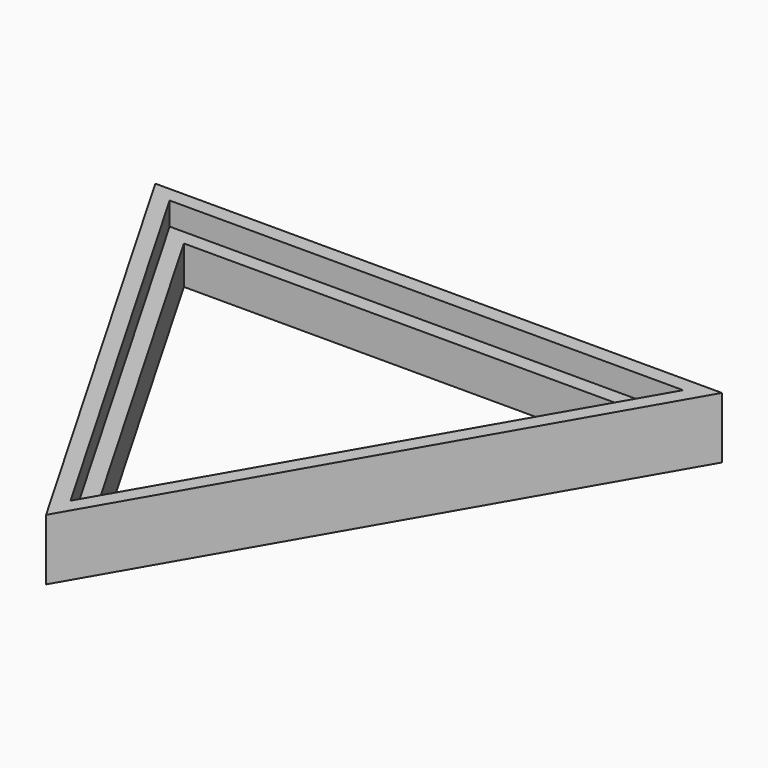
from build123d import *

# Parameters (mm, degrees)
F1_DEPTH = 25
F2_DEPTH = 40


with BuildPart() as f1:
    # F0 (on Top) → F1 (new body)
    with BuildSketch(Plane.XY):
        Polygon((187.1705980145, 100.9474343061), (-182.8294019855, 100.9474343061), (2.1705980145, -219.4819650941), align=None)
        Polygon((2.1705980145, -199.4819650941), (-165.5088939098, 90.9474343061), (169.8500899388, 90.9474343061), align=None, mode=Mode.SUBTRACT)
        Polygon((169.8500899388, 90.9474343061), (-165.5088939098, 90.9474343061), (2.1705980145, -199.4819650941), align=None)
        Polygon((152.5295818631, 80.9474343061), (2.1705980145, -179.4819650941), (-148.1883858341, 80.9474343061), align=None, mode=Mode.SUBTRACT)
    extrude(amount=F1_DEPTH)

    # F0 (on Top) → F2 (join)
    with BuildSketch(Plane.XY):
        Polygon((187.1705980145, 100.9474343061), (-182.8294019855, 100.9474343061), (2.1705980145, -219.4819650941), align=None)
        Polygon((2.1705980145, -199.4819650941), (-165.5088939098, 90.9474343061), (169.8500899388, 90.9474343061), align=None, mode=Mode.SUBTRACT)
    extrude(amount=F2_DEPTH)


solid = f1.part
